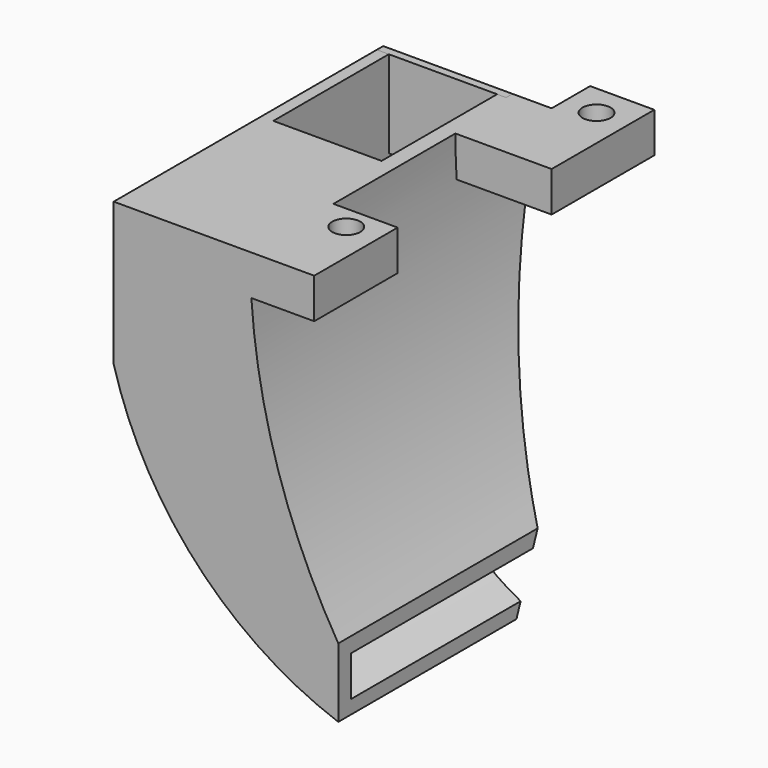
from build123d import *

# Parameters (mm, degrees)
SKETCH_W        = 28
SKETCH_H        = 42
PAD_DEPTH       = 48
POCKET_DEPTH    = 42.001
POCKET001_DEPTH = 28.001
POCKET002_DEPTH = 40
POCKET003_DEPTH = 42.001
SKETCH005_W     = 12.884712
SKETCH005_H     = 5
PAD001_DEPTH    = 10
SKETCH006_W     = 8
SKETCH006_H     = 5
PAD002_DEPTH    = 6
SKETCH007_W     = 9
SKETCH007_H     = 5
PAD003_DEPTH    = 13
SKETCH009_R     = 1.75
POCKET004_DEPTH = 6
SKETCH010_W     = 16.115288
SKETCH010_H     = 23
PAD004_DEPTH    = 1
SKETCH011_W     = 16.115288
SKETCH011_H     = 10.869565
PAD005_DEPTH    = 1


with BuildPart() as part:
    # Sketch → Pad (new body)
    with BuildSketch(Plane.XY):
        with Locations((-29, -29)):
            Rectangle(SKETCH_W, SKETCH_H)
    extrude(amount=-PAD_DEPTH)

    # Sketch001 (on Face3 of Pad) → Pocket (cut, through all)
    with BuildSketch(Plane.XZ.offset(50)):
        with BuildLine():
            ThreePointArc((-43, -17.83216), (-32.688295, -36.339337), (-15, -48))
            Line((-15, -48), (-62.101535, -92.662663))
            Line((-43, -17.83216), (-62.101535, -92.662663))
        make_face()
    extrude(amount=-POCKET_DEPTH, mode=Mode.SUBTRACT)

    # Sketch002 (on Face3 of Pocket) → Pocket001 (cut, through all)
    with BuildSketch(Plane.YZ.offset(-15)):
        Polygon((0, 10), (-23, -50), (20.241647, -57.218418), align=None)
    extrude(amount=-POCKET001_DEPTH, mode=Mode.SUBTRACT)

    # Sketch003 (on Face1 of Pocket001) → Pocket002 (cut)
    with BuildSketch(Plane(origin=(0, -8, 0), x_dir=(-1, 0, 0), z_dir=(0, 1, 0))):
        with BuildLine():
            Line((41.5, 3), (41.5, -17.25833))
            ThreePointArc((12.43, -47.164245), (30.833459, -35.971617), (41.5, -17.25833))
            Line((12.43, -44.72372), (12.43, -47.164245))
            ThreePointArc((12.43, -44.72372), (23.996206, -23.678239), (28, 0))
            Line((28, 3), (28, 0))
            Line((41.5, 3), (28, 3))
        make_face()
    extrude(amount=-POCKET002_DEPTH, mode=Mode.SUBTRACT)

    # Sketch004 (on Face10 of Pocket002) → Pocket003 (cut, through all)
    with BuildSketch(Plane.XZ.offset(50)):
        with BuildLine():
            ThreePointArc((-26, 0), (-13.012856, -42.489763), (21.51, -70.45793))
            Line((21.51, -70.45793), (50, 0))
            Line((-26, 0), (50, 0))
        make_face()
    extrude(amount=-POCKET003_DEPTH, mode=Mode.SUBTRACT)

    # Sketch005 (on Face1 of Pocket003) → Pad001 (join)
    with BuildSketch(Plane(origin=(0, -8, 0), x_dir=(-1, 0, 0), z_dir=(0, 1, 0))):
        with Locations((20.442356, -2.5)):
            Rectangle(SKETCH005_W, SKETCH005_H)
    extrude(amount=-PAD001_DEPTH)

    # Sketch006 (on Face13 of Pad001) → Pad002 (join)
    with BuildSketch(Plane(origin=(0, -8, 0), x_dir=(-1, 0, 0), z_dir=(0, 1, 0))):
        with Locations((18, -2.5)):
            Rectangle(SKETCH006_W, SKETCH006_H)
    extrude(amount=PAD002_DEPTH)

    # Sketch007 (on Face11 of Pad002) → Pad003 (join)
    with BuildSketch(Plane.XZ.offset(50)):
        with Locations((-22.5, -2.5)):
            Rectangle(SKETCH007_W, SKETCH007_H)
    extrude(amount=-PAD003_DEPTH)

    # Sketch009 (on Face24 of Pad003) → Pocket004 (cut)
    with BuildSketch(Plane.XY):
        with Locations((-18, -6)):
            Circle(SKETCH009_R)
        with Locations((-22, -40)):
            Circle(SKETCH009_R)
    extrude(amount=-POCKET004_DEPTH, mode=Mode.SUBTRACT)

    # Sketch010 (on Face2 of Pocket004) → Pad004 (join)
    with BuildSketch(Plane.XY):
        with Locations((-34.942356, -38.5)):
            Rectangle(SKETCH010_W, SKETCH010_H)
    extrude(amount=-PAD004_DEPTH)

    # Sketch011 (on Face39 of Pad004) → Pad005 (join)
    with BuildSketch(Plane(origin=(0, -8, 0), x_dir=(-1, 0, 0), z_dir=(0, 1, 0))):
        with Locations((34.942356, -5.434782)):
            Rectangle(SKETCH011_W, SKETCH011_H)
    extrude(amount=-PAD005_DEPTH)


solid = part.part
